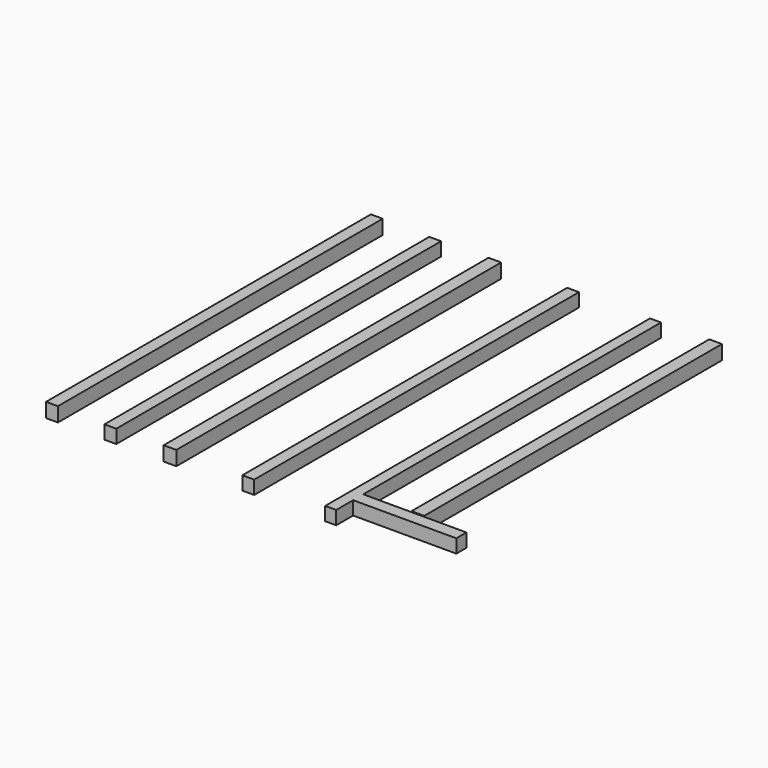
from build123d import *

# Parameters (mm, degrees)
F0_W     = 140
F0_H     = 4800
F0_W_2   = 150
F0_H_2   = 4400
F1_DEPTH = 170
F2_DEPTH = 160


with BuildPart() as f1:
    # F0 (on Top) → F1 (new body)
    with BuildSketch(Plane.XY):
        with Locations((-4080, -2400)):
            Rectangle(F0_W, F0_H)
        with Locations((-2685, -2400)):
            Rectangle(F0_W_2, F0_H)
        with Locations((-75, -2200)):
            Rectangle(F0_W_2, F0_H_2)
    extrude(amount=F1_DEPTH)


with BuildPart() as f2:
    # F0 (on Top) → F2 (new body)
    with BuildSketch(Plane.XY):
        with Locations((-3390, -2400)):
            Rectangle(F0_W, F0_H)
        with Locations((-1760, -2400)):
            Rectangle(F0_W, F0_H)
        Polygon((-720, -4550), (-720, -4400), (-720, 0), (-850, 0), (-850, -4800), (-720, -4800), align=None)
        Polygon((0, -4400), (-150, -4400), (-720, -4400), (-720, -4550), (500, -4550), (500, -4400), align=None)
    extrude(amount=F2_DEPTH)


solid = Compound([f1.part, f2.part])
